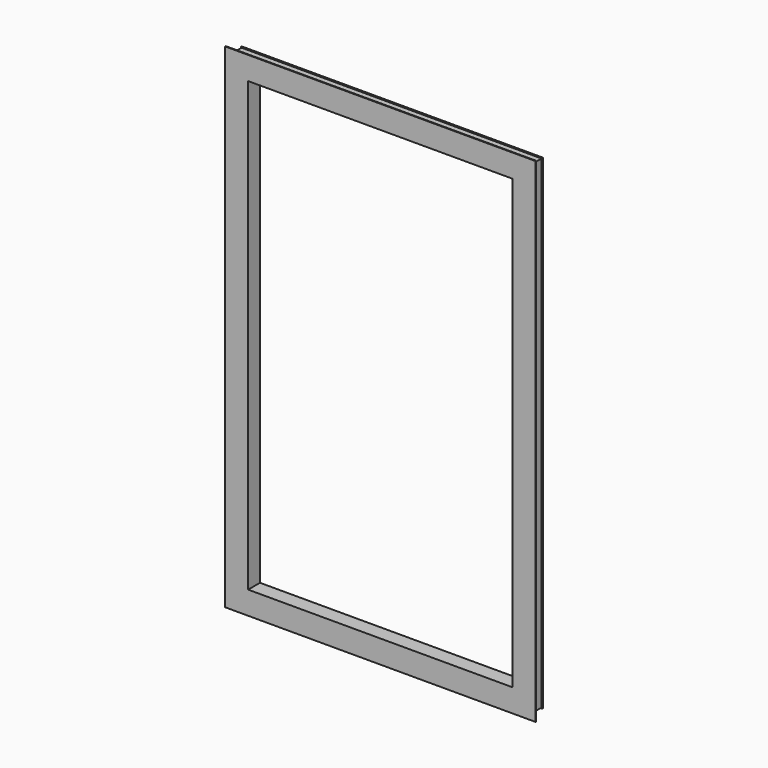
from build123d import *

# Parameters (mm, degrees)
F0_W     = 812
F0_H     = 1306
F0_W_2   = 712
F0_H_2   = 1206
F1_DEPTH = 1
F2_W     = 808
F2_H     = 1302
F2_W_2   = 804
F2_H_2   = 1298
F2_W_3   = 716
F2_H_3   = 1210
F2_W_4   = 712
F2_H_4   = 1206
F3_DEPTH = 36
F4_W     = 836
F4_H     = 1330
F4_W_2   = 712
F4_H_2   = 1206
F5_DEPTH = 2


with BuildPart() as f1:
    # F0 (on Front) → F1 (new body, symmetric)
    with BuildSketch(Plane.XZ):
        Rectangle(F0_W, F0_H)
        Rectangle(F0_W_2, F0_H_2, mode=Mode.SUBTRACT)
    extrude(amount=F1_DEPTH, both=True)

    # F2 (on face) → F3 (join)
    with BuildSketch(Plane.XZ.offset(1)):
        Rectangle(F2_W, F2_H)
        Rectangle(F2_W_2, F2_H_2, mode=Mode.SUBTRACT)
        Rectangle(F2_W_3, F2_H_3)
        Rectangle(F2_W_4, F2_H_4, mode=Mode.SUBTRACT)
    extrude(amount=F3_DEPTH)

    # F4 (on face) → F5 (join)
    with BuildSketch(Plane.XZ.offset(37)):
        Rectangle(F4_W, F4_H)
        Rectangle(F4_W_2, F4_H_2, mode=Mode.SUBTRACT)
    extrude(amount=F5_DEPTH)


solid = f1.part
